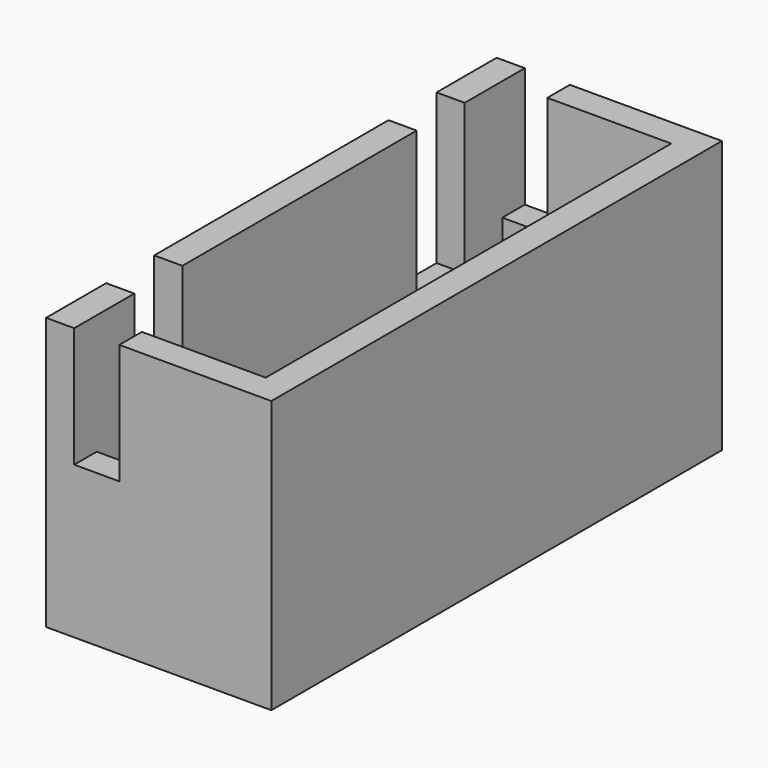
from build123d import *

# Parameters (mm, degrees)
BOX001_W        = 4.5
BOX001_H        = 13.5
BOX001_DEPTH    = 6.5
THICKNESS_T     = 0.75
SKETCH002_W     = 1.6
SKETCH002_H     = 4
POCKET001_DEPTH = 0.75
SKETCH003_W     = 1.2
SKETCH003_H     = 3.2
POCKET002_DEPTH = 15.001


with BuildPart() as part:
    # Box001 → Box001 (new body)
    with BuildSketch(Plane(origin=(-8.25, -13.2, 2.25), x_dir=(1, 0, 0), z_dir=(0, 0, 1))):
        with Locations((2.25, 6.75)):
            Rectangle(BOX001_W, BOX001_H)
    extrude(amount=BOX001_DEPTH)

    # Thickness
    thickness_openings = [part.faces().sort_by_distance(p)[0] for p in [
        (-6, -6.45, 8.75),
    ]]
    offset(amount=THICKNESS_T, openings=thickness_openings, kind=Kind.INTERSECTION)

    # Sketch002 → Pocket001 (cut)
    with BuildSketch(Plane(origin=(-9, 0, 0), x_dir=(0, -1, 0), z_dir=(-1, 0, 0))):
        with Locations((1.75, 6.75)):
            Rectangle(SKETCH002_W, SKETCH002_H)
        with Locations((11.15, 6.75)):
            Rectangle(SKETCH002_W, SKETCH002_H)
    extrude(amount=-POCKET001_DEPTH, mode=Mode.SUBTRACT)

    # Sketch003 → Pocket002 (cut, through all)
    with BuildSketch(Plane.XZ.offset(13.95)):
        with Locations((-7.65, 7.15)):
            Rectangle(SKETCH003_W, SKETCH003_H)
    extrude(amount=-POCKET002_DEPTH, mode=Mode.SUBTRACT)


solid = part.part
